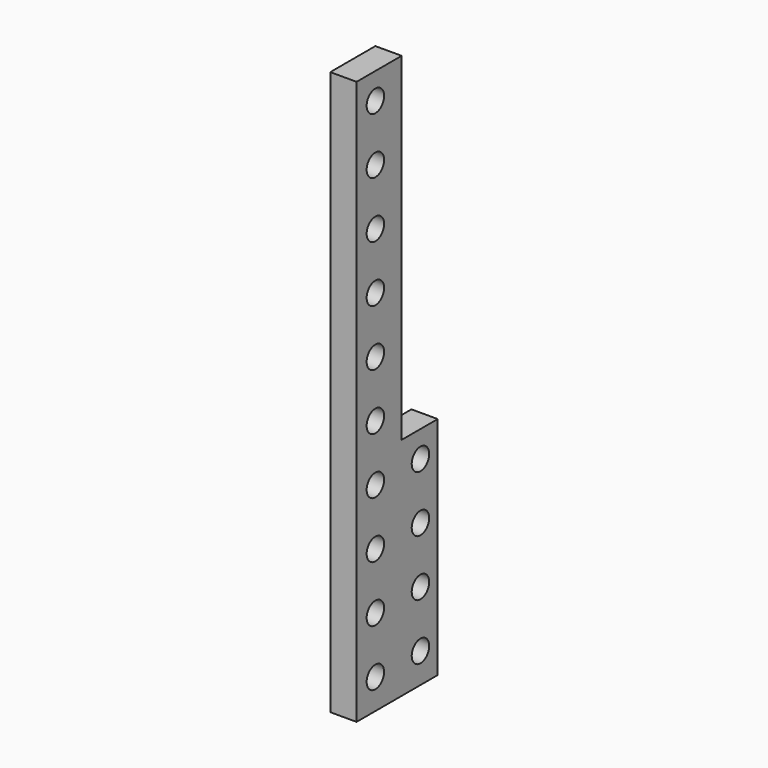
from build123d import *

# Parameters (mm, degrees)
CYLINDER061_R     = 2.9
CYLINDER061_DEPTH = 132
CYLINDER062_R     = 2.9
CYLINDER062_DEPTH = 132
CYLINDER063_R     = 2.9
CYLINDER063_DEPTH = 132
CYLINDER064_R     = 2.9
CYLINDER064_DEPTH = 132
CYLINDER065_R     = 2.9
CYLINDER065_DEPTH = 132
CYLINDER066_R     = 2.9
CYLINDER066_DEPTH = 132
CYLINDER067_R     = 2.9
CYLINDER067_DEPTH = 132
CYLINDER068_R     = 2.9
CYLINDER068_DEPTH = 132
CYLINDER069_R     = 2.9
CYLINDER069_DEPTH = 132
CYLINDER070_R     = 2.9
CYLINDER070_DEPTH = 132
CYLINDER071_R     = 2.9
CYLINDER071_DEPTH = 132
CYLINDER072_R     = 2.9
CYLINDER072_DEPTH = 132
CYLINDER073_R     = 2.9
CYLINDER073_DEPTH = 132
CYLINDER074_R     = 2.9
CYLINDER074_DEPTH = 132
CYLINDER075_R     = 2.9
CYLINDER075_DEPTH = 132
CYLINDER076_R     = 2.9
CYLINDER076_DEPTH = 132
CYLINDER077_R     = 2.9
CYLINDER077_DEPTH = 132
CYLINDER078_R     = 2.9
CYLINDER078_DEPTH = 132
CYLINDER079_R     = 2.9
CYLINDER079_DEPTH = 132
CYLINDER060_R     = 2.9
CYLINDER060_DEPTH = 132
CYLINDER041_R     = 2.9
CYLINDER041_DEPTH = 132
CYLINDER042_R     = 2.9
CYLINDER042_DEPTH = 132
CYLINDER043_R     = 2.9
CYLINDER043_DEPTH = 132
CYLINDER044_R     = 2.9
CYLINDER044_DEPTH = 132
CYLINDER045_R     = 2.9
CYLINDER045_DEPTH = 132
CYLINDER046_R     = 2.9
CYLINDER046_DEPTH = 132
CYLINDER047_R     = 2.9
CYLINDER047_DEPTH = 132
CYLINDER048_R     = 2.9
CYLINDER048_DEPTH = 132
CYLINDER049_R     = 2.9
CYLINDER049_DEPTH = 132
CYLINDER050_R     = 2.9
CYLINDER050_DEPTH = 132
CYLINDER051_R     = 2.9
CYLINDER051_DEPTH = 132
CYLINDER052_R     = 2.9
CYLINDER052_DEPTH = 132
CYLINDER053_R     = 2.9
CYLINDER053_DEPTH = 132
CYLINDER054_R     = 2.9
CYLINDER054_DEPTH = 132
CYLINDER055_R     = 2.9
CYLINDER055_DEPTH = 132
CYLINDER056_R     = 2.9
CYLINDER056_DEPTH = 132
CYLINDER057_R     = 2.9
CYLINDER057_DEPTH = 132
CYLINDER058_R     = 2.9
CYLINDER058_DEPTH = 132
CYLINDER059_R     = 2.9
CYLINDER059_DEPTH = 132
CYLINDER040_R     = 2.9
CYLINDER040_DEPTH = 132
CUBE003_W         = 7
CUBE003_H         = 15
CUBE003_DEPTH     = 150
CUBE002_W         = 7
CUBE002_H         = 12
CUBE002_DEPTH     = 60


with BuildPart() as cylinder061:
    # cylinder061 → cylinder061 (new body)
    with BuildSketch(Plane(origin=(-66, 0, 25), x_dir=(0, 0, -1), z_dir=(1, 0, 0))):
        Circle(CYLINDER061_R)
    extrude(amount=CYLINDER061_DEPTH)


with BuildPart() as cylinder062:
    # cylinder062 → cylinder062 (new body)
    with BuildSketch(Plane(origin=(-66, 0, 40), x_dir=(0, 0, -1), z_dir=(1, 0, 0))):
        Circle(CYLINDER062_R)
    extrude(amount=CYLINDER062_DEPTH)


with BuildPart() as cylinder063:
    # cylinder063 → cylinder063 (new body)
    with BuildSketch(Plane(origin=(-66, 0, 55), x_dir=(0, 0, -1), z_dir=(1, 0, 0))):
        Circle(CYLINDER063_R)
    extrude(amount=CYLINDER063_DEPTH)


with BuildPart() as cylinder064:
    # cylinder064 → cylinder064 (new body)
    with BuildSketch(Plane(origin=(-66, 0, 70), x_dir=(0, 0, -1), z_dir=(1, 0, 0))):
        Circle(CYLINDER064_R)
    extrude(amount=CYLINDER064_DEPTH)


with BuildPart() as cylinder065:
    # cylinder065 → cylinder065 (new body)
    with BuildSketch(Plane(origin=(-66, 0, 85), x_dir=(0, 0, -1), z_dir=(1, 0, 0))):
        Circle(CYLINDER065_R)
    extrude(amount=CYLINDER065_DEPTH)


with BuildPart() as cylinder066:
    # cylinder066 → cylinder066 (new body)
    with BuildSketch(Plane(origin=(-66, 0, 100), x_dir=(0, 0, -1), z_dir=(1, 0, 0))):
        Circle(CYLINDER066_R)
    extrude(amount=CYLINDER066_DEPTH)


with BuildPart() as cylinder067:
    # cylinder067 → cylinder067 (new body)
    with BuildSketch(Plane(origin=(-66, 0, 115), x_dir=(0, 0, -1), z_dir=(1, 0, 0))):
        Circle(CYLINDER067_R)
    extrude(amount=CYLINDER067_DEPTH)


with BuildPart() as cylinder068:
    # cylinder068 → cylinder068 (new body)
    with BuildSketch(Plane(origin=(-66, 0, 130), x_dir=(0, 0, -1), z_dir=(1, 0, 0))):
        Circle(CYLINDER068_R)
    extrude(amount=CYLINDER068_DEPTH)


with BuildPart() as cylinder069:
    # cylinder069 → cylinder069 (new body)
    with BuildSketch(Plane(origin=(-66, 0, 145), x_dir=(0, 0, -1), z_dir=(1, 0, 0))):
        Circle(CYLINDER069_R)
    extrude(amount=CYLINDER069_DEPTH)


with BuildPart() as cylinder070:
    # cylinder070 → cylinder070 (new body)
    with BuildSketch(Plane(origin=(-66, 0, 160), x_dir=(0, 0, -1), z_dir=(1, 0, 0))):
        Circle(CYLINDER070_R)
    extrude(amount=CYLINDER070_DEPTH)


with BuildPart() as cylinder071:
    # cylinder071 → cylinder071 (new body)
    with BuildSketch(Plane(origin=(-66, 0, 175), x_dir=(0, 0, -1), z_dir=(1, 0, 0))):
        Circle(CYLINDER071_R)
    extrude(amount=CYLINDER071_DEPTH)


with BuildPart() as cylinder072:
    # cylinder072 → cylinder072 (new body)
    with BuildSketch(Plane(origin=(-66, 0, 190), x_dir=(0, 0, -1), z_dir=(1, 0, 0))):
        Circle(CYLINDER072_R)
    extrude(amount=CYLINDER072_DEPTH)


with BuildPart() as cylinder073:
    # cylinder073 → cylinder073 (new body)
    with BuildSketch(Plane(origin=(-66, 0, 205), x_dir=(0, 0, -1), z_dir=(1, 0, 0))):
        Circle(CYLINDER073_R)
    extrude(amount=CYLINDER073_DEPTH)


with BuildPart() as cylinder074:
    # cylinder074 → cylinder074 (new body)
    with BuildSketch(Plane(origin=(-66, 0, 220), x_dir=(0, 0, -1), z_dir=(1, 0, 0))):
        Circle(CYLINDER074_R)
    extrude(amount=CYLINDER074_DEPTH)


with BuildPart() as cylinder075:
    # cylinder075 → cylinder075 (new body)
    with BuildSketch(Plane(origin=(-66, 0, 235), x_dir=(0, 0, -1), z_dir=(1, 0, 0))):
        Circle(CYLINDER075_R)
    extrude(amount=CYLINDER075_DEPTH)


with BuildPart() as cylinder076:
    # cylinder076 → cylinder076 (new body)
    with BuildSketch(Plane(origin=(-66, 0, 250), x_dir=(0, 0, -1), z_dir=(1, 0, 0))):
        Circle(CYLINDER076_R)
    extrude(amount=CYLINDER076_DEPTH)


with BuildPart() as cylinder077:
    # cylinder077 → cylinder077 (new body)
    with BuildSketch(Plane(origin=(-66, 0, 265), x_dir=(0, 0, -1), z_dir=(1, 0, 0))):
        Circle(CYLINDER077_R)
    extrude(amount=CYLINDER077_DEPTH)


with BuildPart() as cylinder078:
    # cylinder078 → cylinder078 (new body)
    with BuildSketch(Plane(origin=(-66, 0, 280), x_dir=(0, 0, -1), z_dir=(1, 0, 0))):
        Circle(CYLINDER078_R)
    extrude(amount=CYLINDER078_DEPTH)


with BuildPart() as cylinder079:
    # cylinder079 → cylinder079 (new body)
    with BuildSketch(Plane(origin=(-66, 0, 295), x_dir=(0, 0, -1), z_dir=(1, 0, 0))):
        Circle(CYLINDER079_R)
    extrude(amount=CYLINDER079_DEPTH)


with BuildPart() as group003:
    # cylinder060 → cylinder060 (new body)
    with BuildSketch(Plane(origin=(-66, 0, 10), x_dir=(0, 0, -1), z_dir=(1, 0, 0))):
        Circle(CYLINDER060_R)
    extrude(amount=CYLINDER060_DEPTH)

    # Group003: union cylinder061, cylinder062, cylinder063, cylinder064, cylinder065, cylinder066, cylinder067, cylinder068, cylinder069, cylinder070, cylinder071, cylinder072, cylinder073, cylinder074, cylinder075, cylinder076, cylinder077, cylinder078, cylinder079
    add(cylinder061.part)
    add(cylinder062.part)
    add(cylinder063.part)
    add(cylinder064.part)
    add(cylinder065.part)
    add(cylinder066.part)
    add(cylinder067.part)
    add(cylinder068.part)
    add(cylinder069.part)
    add(cylinder070.part)
    add(cylinder071.part)
    add(cylinder072.part)
    add(cylinder073.part)
    add(cylinder074.part)
    add(cylinder075.part)
    add(cylinder076.part)
    add(cylinder077.part)
    add(cylinder078.part)
    add(cylinder079.part)


with BuildPart() as group003_1:
    # Group003 placement: moved
    add(group003.part.moved(Location((0, -34.75, -32))))


with BuildPart() as cylinder041:
    # cylinder041 → cylinder041 (new body)
    with BuildSketch(Plane(origin=(-66, 0, 25), x_dir=(0, 0, -1), z_dir=(1, 0, 0))):
        Circle(CYLINDER041_R)
    extrude(amount=CYLINDER041_DEPTH)


with BuildPart() as cylinder042:
    # cylinder042 → cylinder042 (new body)
    with BuildSketch(Plane(origin=(-66, 0, 40), x_dir=(0, 0, -1), z_dir=(1, 0, 0))):
        Circle(CYLINDER042_R)
    extrude(amount=CYLINDER042_DEPTH)


with BuildPart() as cylinder043:
    # cylinder043 → cylinder043 (new body)
    with BuildSketch(Plane(origin=(-66, 0, 55), x_dir=(0, 0, -1), z_dir=(1, 0, 0))):
        Circle(CYLINDER043_R)
    extrude(amount=CYLINDER043_DEPTH)


with BuildPart() as cylinder044:
    # cylinder044 → cylinder044 (new body)
    with BuildSketch(Plane(origin=(-66, 0, 70), x_dir=(0, 0, -1), z_dir=(1, 0, 0))):
        Circle(CYLINDER044_R)
    extrude(amount=CYLINDER044_DEPTH)


with BuildPart() as cylinder045:
    # cylinder045 → cylinder045 (new body)
    with BuildSketch(Plane(origin=(-66, 0, 85), x_dir=(0, 0, -1), z_dir=(1, 0, 0))):
        Circle(CYLINDER045_R)
    extrude(amount=CYLINDER045_DEPTH)


with BuildPart() as cylinder046:
    # cylinder046 → cylinder046 (new body)
    with BuildSketch(Plane(origin=(-66, 0, 100), x_dir=(0, 0, -1), z_dir=(1, 0, 0))):
        Circle(CYLINDER046_R)
    extrude(amount=CYLINDER046_DEPTH)


with BuildPart() as cylinder047:
    # cylinder047 → cylinder047 (new body)
    with BuildSketch(Plane(origin=(-66, 0, 115), x_dir=(0, 0, -1), z_dir=(1, 0, 0))):
        Circle(CYLINDER047_R)
    extrude(amount=CYLINDER047_DEPTH)


with BuildPart() as cylinder048:
    # cylinder048 → cylinder048 (new body)
    with BuildSketch(Plane(origin=(-66, 0, 130), x_dir=(0, 0, -1), z_dir=(1, 0, 0))):
        Circle(CYLINDER048_R)
    extrude(amount=CYLINDER048_DEPTH)


with BuildPart() as cylinder049:
    # cylinder049 → cylinder049 (new body)
    with BuildSketch(Plane(origin=(-66, 0, 145), x_dir=(0, 0, -1), z_dir=(1, 0, 0))):
        Circle(CYLINDER049_R)
    extrude(amount=CYLINDER049_DEPTH)


with BuildPart() as cylinder050:
    # cylinder050 → cylinder050 (new body)
    with BuildSketch(Plane(origin=(-66, 0, 160), x_dir=(0, 0, -1), z_dir=(1, 0, 0))):
        Circle(CYLINDER050_R)
    extrude(amount=CYLINDER050_DEPTH)


with BuildPart() as cylinder051:
    # cylinder051 → cylinder051 (new body)
    with BuildSketch(Plane(origin=(-66, 0, 175), x_dir=(0, 0, -1), z_dir=(1, 0, 0))):
        Circle(CYLINDER051_R)
    extrude(amount=CYLINDER051_DEPTH)


with BuildPart() as cylinder052:
    # cylinder052 → cylinder052 (new body)
    with BuildSketch(Plane(origin=(-66, 0, 190), x_dir=(0, 0, -1), z_dir=(1, 0, 0))):
        Circle(CYLINDER052_R)
    extrude(amount=CYLINDER052_DEPTH)


with BuildPart() as cylinder053:
    # cylinder053 → cylinder053 (new body)
    with BuildSketch(Plane(origin=(-66, 0, 205), x_dir=(0, 0, -1), z_dir=(1, 0, 0))):
        Circle(CYLINDER053_R)
    extrude(amount=CYLINDER053_DEPTH)


with BuildPart() as cylinder054:
    # cylinder054 → cylinder054 (new body)
    with BuildSketch(Plane(origin=(-66, 0, 220), x_dir=(0, 0, -1), z_dir=(1, 0, 0))):
        Circle(CYLINDER054_R)
    extrude(amount=CYLINDER054_DEPTH)


with BuildPart() as cylinder055:
    # cylinder055 → cylinder055 (new body)
    with BuildSketch(Plane(origin=(-66, 0, 235), x_dir=(0, 0, -1), z_dir=(1, 0, 0))):
        Circle(CYLINDER055_R)
    extrude(amount=CYLINDER055_DEPTH)


with BuildPart() as cylinder056:
    # cylinder056 → cylinder056 (new body)
    with BuildSketch(Plane(origin=(-66, 0, 250), x_dir=(0, 0, -1), z_dir=(1, 0, 0))):
        Circle(CYLINDER056_R)
    extrude(amount=CYLINDER056_DEPTH)


with BuildPart() as cylinder057:
    # cylinder057 → cylinder057 (new body)
    with BuildSketch(Plane(origin=(-66, 0, 265), x_dir=(0, 0, -1), z_dir=(1, 0, 0))):
        Circle(CYLINDER057_R)
    extrude(amount=CYLINDER057_DEPTH)


with BuildPart() as cylinder058:
    # cylinder058 → cylinder058 (new body)
    with BuildSketch(Plane(origin=(-66, 0, 280), x_dir=(0, 0, -1), z_dir=(1, 0, 0))):
        Circle(CYLINDER058_R)
    extrude(amount=CYLINDER058_DEPTH)


with BuildPart() as cylinder059:
    # cylinder059 → cylinder059 (new body)
    with BuildSketch(Plane(origin=(-66, 0, 295), x_dir=(0, 0, -1), z_dir=(1, 0, 0))):
        Circle(CYLINDER059_R)
    extrude(amount=CYLINDER059_DEPTH)


with BuildPart() as union001:
    # cylinder040 → cylinder040 (new body)
    with BuildSketch(Plane(origin=(-66, 0, 10), x_dir=(0, 0, -1), z_dir=(1, 0, 0))):
        Circle(CYLINDER040_R)
    extrude(amount=CYLINDER040_DEPTH)

    # Group002: union cylinder041, cylinder042, cylinder043, cylinder044, cylinder045, cylinder046, cylinder047, cylinder048, cylinder049, cylinder050, cylinder051, cylinder052, cylinder053, cylinder054, cylinder055, cylinder056, cylinder057, cylinder058, cylinder059
    add(cylinder041.part)
    add(cylinder042.part)
    add(cylinder043.part)
    add(cylinder044.part)
    add(cylinder045.part)
    add(cylinder046.part)
    add(cylinder047.part)
    add(cylinder048.part)
    add(cylinder049.part)
    add(cylinder050.part)
    add(cylinder051.part)
    add(cylinder052.part)
    add(cylinder053.part)
    add(cylinder054.part)
    add(cylinder055.part)
    add(cylinder056.part)
    add(cylinder057.part)
    add(cylinder058.part)
    add(cylinder059.part)


with BuildPart() as union001_1:
    # Group002 placement: moved
    add(union001.part.moved(Location((0, -19.75, -32))))

    # union001: union Group003
    add(group003_1.part)


with BuildPart() as cube003:
    # cube003 → cube003 (new body)
    with BuildSketch(Plane(origin=(-3.5, -21, -30), x_dir=(1, 0, 0), z_dir=(0, 0, 1))):
        with Locations((3.5, 7.5)):
            Rectangle(CUBE003_W, CUBE003_H)
    extrude(amount=CUBE003_DEPTH)


with BuildPart() as difference001:
    # cube002 → cube002 (new body)
    with BuildSketch(Plane(origin=(-3.5, -6, -30), x_dir=(1, 0, 0), z_dir=(0, 0, 1))):
        with Locations((3.5, 6)):
            Rectangle(CUBE002_W, CUBE002_H)
    extrude(amount=CUBE002_DEPTH)

    # Matrix_Union001: union cube003
    add(cube003.part)


with BuildPart() as difference001_1:
    # Matrix_Union001 placement: moved
    add(difference001.part.moved(Location((-16.5, -20, 0))))

    # difference001: cut union001
    add(union001_1.part, mode=Mode.SUBTRACT)


solid = difference001_1.part
